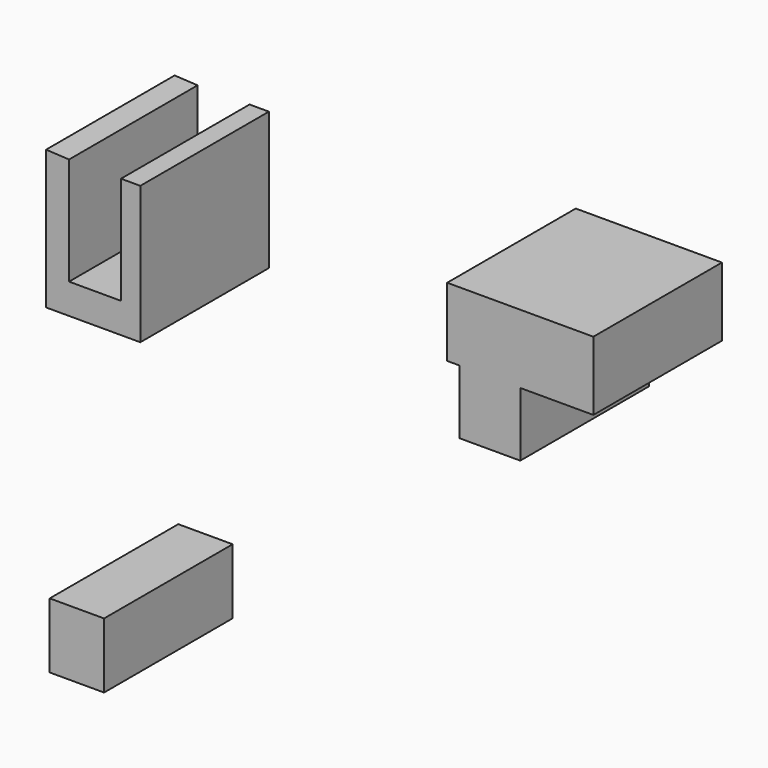
from build123d import *

# Parameters (mm, degrees)
F1_DEPTH = 25.4
F2_W     = 9.6432107966
F2_H     = 10.1205967367
F3_DEPTH = 25.4
F4_W     = 8.5929594934
F4_H     = 10.3115532547
F5_DEPTH = 25.4


with BuildPart() as f1:
    # F0 (on Front) → F1 (new body)
    with BuildSketch(Plane.XZ):
        Polygon((-53.8492128253, 41.4371602237), (-57.4773512781, 41.6281148791), (-57.4773512781, 19.6683295071), (-42.5828881562, 19.6683295071), (-42.5828881562, 41.4371602237), (-45.6381626427, 41.4371602237), (-45.6381626427, 24.442197755), (-53.8492128253, 24.442197755), align=None)
    extrude(amount=F1_DEPTH)


with BuildPart() as f3:
    # F2 (on Front) → F3 (new body)
    with BuildSketch(Plane.XZ):
        Polygon((29.0251094848, 43.7286160886), (5.919593852, 43.7286160886), (5.919593852, 32.8442007303), (7.8291408718, 32.8442007303), (17.4723516684, 32.8442007303), (29.0251094848, 32.8442007303), align=None)
        with Locations((12.6507462701, 27.783902362)):
            Rectangle(F2_W, F2_H)
    extrude(amount=F3_DEPTH)


with BuildPart() as f5:
    # F4 (on Front) → F5 (new body)
    with BuildSketch(Plane.XZ):
        with Locations((-52.6080075651, -25.7788794115)):
            Rectangle(F4_W, F4_H)
    extrude(amount=F5_DEPTH)


solid = Compound([f1.part, f3.part, f5.part])
